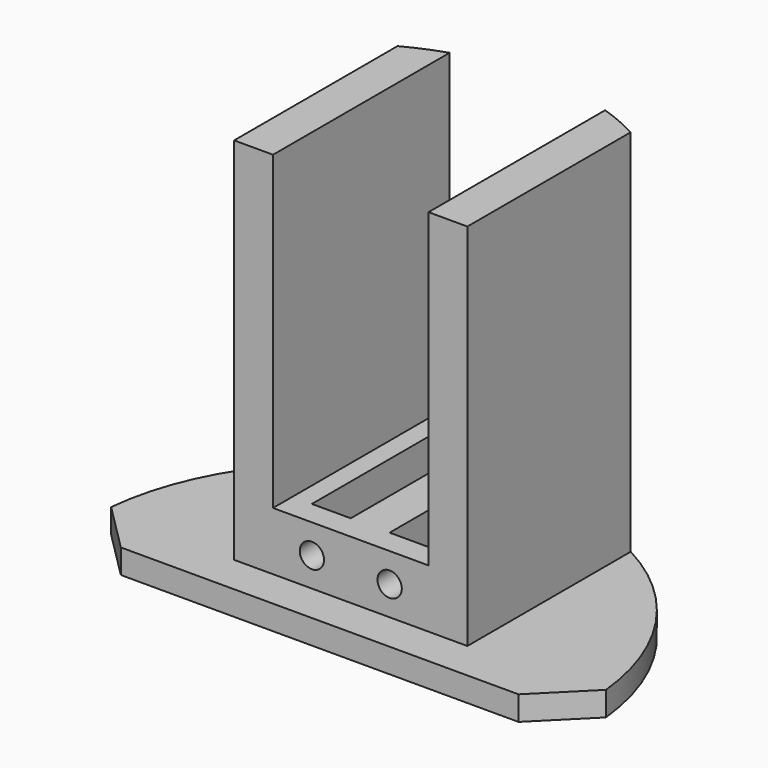
from build123d import *

# Parameters (mm, degrees)
F1_DEPTH  = 3.175
F3_DEPTH  = 7.62
F5_DEPTH  = 7.62
F7_DEPTH  = 40.64
F8_R      = 1.5875
F9_DEPTH  = 25.4
F10_DEPTH = 25.4


with BuildPart() as f1:
    # F0 (on Top) → F1 (new body)
    with BuildSketch(Plane.XY):
        with BuildLine():
            Line((25.9830465623, -3.06), (32.3330465623, 3.29))
            ThreePointArc((32.3330465623, 3.29), (0, 32.5), (-32.3330465623, 3.29))
            Line((-32.3330465623, 3.29), (-25.9830465623, -3.06))
            Line((-25.9830465623, -3.06), (0, -3.06))
            Line((0, -3.06), (25.9830465623, -3.06))
        make_face()
    extrude(amount=F1_DEPTH)

    # F2 (on face) → F3 (join)
    with BuildSketch(Plane.XY.offset(3.175)):
        with BuildLine():
            Line((15.24, 2.02), (15.24, 28.7052678092))
            ThreePointArc((15.24, 28.7052678092), (0, 32.5), (-15.24, 28.7052678092))
            Line((-15.24, 28.7052678092), (-15.24, 2.02))
            Line((-15.24, 2.02), (15.24, 2.02))
        make_face()
    extrude(amount=F3_DEPTH)

    # F4 (on face) → F5 (cut)
    with BuildSketch(Plane.XY.offset(10.795)):
        with BuildLine():
            ThreePointArc((7.62, 31.594075394), (5.0959805235, 32.0979903188), (2.54, 32.4005925872))
            Line((2.54, 32.4005925872), (2.54, 5.195))
            Line((2.54, 5.195), (7.62, 5.195))
            Line((7.62, 5.195), (7.62, 31.594075394))
        make_face()
        with BuildLine():
            Line((-2.54, 5.195), (-2.54, 32.4005925872))
            ThreePointArc((-2.54, 32.4005925872), (-5.0959805235, 32.0979903188), (-7.62, 31.594075394))
            Line((-7.62, 31.594075394), (-7.62, 5.195))
            Line((-7.62, 5.195), (-2.54, 5.195))
        make_face()
    extrude(amount=-F5_DEPTH, mode=Mode.SUBTRACT)

    # F6 (on face) → F7 (join)
    with BuildSketch(Plane.XY.offset(10.795)):
        with BuildLine():
            Line((-10.16, 2.02), (-10.16, 30.8710932751))
            ThreePointArc((-10.16, 30.8710932751), (-12.7460856731, 29.896275688), (-15.24, 28.7052678092))
            Line((-15.24, 28.7052678092), (-15.24, 2.02))
            Line((-15.24, 2.02), (-10.16, 2.02))
        make_face()
        with BuildLine():
            Line((10.16, 30.8710932751), (10.16, 2.02))
            Line((10.16, 2.02), (15.24, 2.02))
            Line((15.24, 2.02), (15.24, 28.7052678092))
            ThreePointArc((15.24, 28.7052678092), (12.7460856731, 29.896275688), (10.16, 30.8710932751))
        make_face()
    extrude(amount=F7_DEPTH)

    # F8 (on face) → F9 (cut)
    with BuildSketch(Plane(origin=(0, 5.195, 0), x_dir=(-1, 0, 0), z_dir=(0, 1, 0))):
        with Locations((-5.08, 6.985)):
            Circle(F8_R)
        with Locations((5.08, 6.985)):
            Circle(F8_R)
    extrude(amount=-F9_DEPTH, mode=Mode.SUBTRACT)

    # F8 (on face) → F10 (cut)
    with BuildSketch(Plane(origin=(0, 5.195, 0), x_dir=(-1, 0, 0), z_dir=(0, 1, 0))):
        with Locations((5.08, 6.985)):
            Circle(F8_R)
    extrude(amount=-F10_DEPTH, mode=Mode.SUBTRACT)


solid = f1.part
